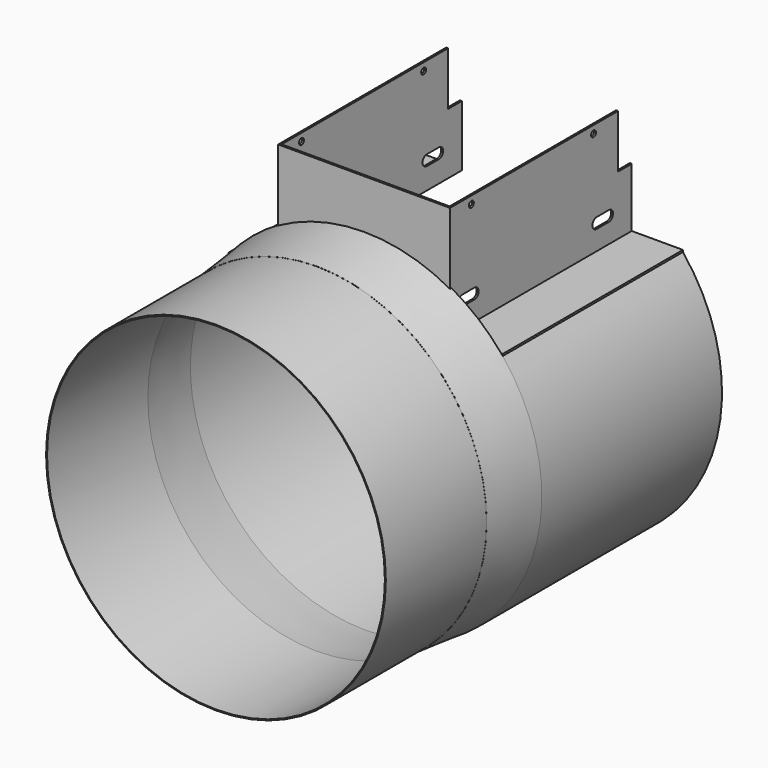
from build123d import *

# Parameters (mm, degrees)
F0_R      = 141.2875
F0_R_2    = 140.49375
F1_DEPTH  = 104.775
F6_R      = 146.558
F6_R_2    = 145.7151605206
F7_DEPTH  = 187.325
F8_W      = 355.6
F8_H      = 187.325
F9_DEPTH  = 54.484
F10_W     = 44.1738647784
F10_H     = 187.325
F11_DEPTH = 1.5875
F12_W     = 1.5875
F12_H     = 187.325
F13_DEPTH = 93.6625
F15_DEPTH = 1.5875
F17_DEPTH = 1.5875
F18_W     = 14.2875
F18_H     = 44.45
F19_DEPTH = 217.9965
F20_R     = 2.5527
F21_DEPTH = 217.9965


with BuildPart() as f1:
    # F0 (on Front) → F1 (new body)
    with BuildSketch(Plane.XZ):
        Circle(F0_R)
        Circle(F0_R_2, mode=Mode.SUBTRACT)
    extrude(amount=F1_DEPTH)

    # F3 (on Right) → F4 (revolve)
    with BuildSketch(Plane.YZ):
        Polygon((0, 141.3524150848), (0, 140.5095756054), (50.8, 145.7151605206), (50.8, 146.558), align=None)
    revolve(axis=Axis((0, 43.5656532645, 0), (0, 1, 0)))

    # F6 (on face) → F7 (join)
    with BuildSketch(Plane(origin=(0, 50.8, 0), x_dir=(-1, 0, 0), z_dir=(0, 1, 0))):
        Circle(F6_R)
        Circle(F6_R_2, mode=Mode.SUBTRACT)
    extrude(amount=F7_DEPTH)

    # F8 (on offset) → F9 (cut, through all)
    with BuildSketch(Plane.XY.offset(92.075)):
        with Locations((0, 144.4625)):
            Rectangle(F8_W, F8_H)
    extrude(amount=F9_DEPTH, mode=Mode.SUBTRACT)

    # F10 (on offset) → F11 (join)
    with BuildSketch(Plane.XY.offset(92.075)):
        with Locations((91.9369323892, 144.4625)):
            Rectangle(F10_W, F10_H)
        with Locations((-91.9369323892, 144.4625)):
            Rectangle(F10_W, F10_H)
    extrude(amount=F11_DEPTH)

    # F12 (on face) → F13 (join)
    with BuildSketch(Plane.XY.offset(93.6625)):
        with Locations((70.64375, 144.4625)):
            Rectangle(F12_W, F12_H)
        with Locations((-70.64375, 144.4625)):
            Rectangle(F12_W, F12_H)
    extrude(amount=F13_DEPTH)

    # F14 (on face) → F15 (join)
    with BuildSketch(Plane(origin=(0, 50.8, 0), x_dir=(-1, 0, 0), z_dir=(0, 1, 0))):
        with BuildLine():
            Line((69.85, 92.075), (112.5973956514, 92.075))
            ThreePointArc((112.5973956514, 92.075), (92.9351127931, 111.8885335618), (69.85, 127.5811766385))
            Line((69.85, 127.5811766385), (69.85, 92.075))
        make_face()
        with BuildLine():
            ThreePointArc((-69.85, 127.5811766385), (-92.9351127931, 111.8885335618), (-112.5973956514, 92.075))
            Line((-112.5973956514, 92.075), (-69.85, 92.075))
            Line((-69.85, 92.075), (-69.85, 127.5811766385))
        make_face()
    extrude(amount=-F15_DEPTH)

    # F16 (on face) → F17 (join)
    with BuildSketch(Plane(origin=(0, 50.8, 0), x_dir=(-1, 0, 0), z_dir=(0, 1, 0))):
        with BuildLine():
            ThreePointArc((-71.4375, 128.0071860315), (0, 146.5918008687), (71.4375, 128.0071860315))
            Line((71.4375, 128.0071860315), (71.4375, 187.325))
            Line((71.4375, 187.325), (-71.4375, 187.325))
            Line((-71.4375, 187.325), (-71.4375, 128.0071860315))
        make_face()
    extrude(amount=-F17_DEPTH)

    # F18 (on face) → F19 (cut, through all)
    with BuildSketch(Plane(origin=(-71.4375, 0, 0), x_dir=(0, -1, 0), z_dir=(-1, 0, 0))):
        with Locations((-230.98125, 165.1)):
            Rectangle(F18_W, F18_H)
    extrude(amount=-F19_DEPTH, mode=Mode.SUBTRACT)

    # F20 (on face) → F21 (cut, through all)
    with BuildSketch(Plane(origin=(-71.4375, 0, 0), x_dir=(0, -1, 0), z_dir=(-1, 0, 0))):
        with BuildLine():
            Line((-61.7855314592, 109.9362217483), (-62.0382119647, 109.936185368))
            ThreePointArc((-62.0382119647, 109.936185368), (-61.9118714487, 109.9343750452), (-61.7855314592, 109.9362217483))
        make_face()
        with BuildLine():
            Line((-74.6118714487, 109.9343750452), (-62.0382119647, 109.936185368))
            Line((-62.0382119647, 109.936185368), (-61.7855314592, 109.9362217483))
            ThreePointArc((-61.7855314592, 109.9362217483), (-57.5470865675, 114.3429791138), (-61.8714737728, 118.6654322225))
            Line((-61.8714737728, 118.6654322225), (-61.9533941249, 118.665433462))
            Line((-61.9533941249, 118.665433462), (-74.6124339459, 118.6656249995))
            ThreePointArc((-74.6124339459, 118.6656249995), (-78.9781249909, 114.2997187514), (-74.6118714487, 109.9343750452))
        make_face()
        with BuildLine():
            Line((-61.9533941249, 118.665433462), (-61.8714737728, 118.6654322225))
            ThreePointArc((-61.8714737728, 118.6654322225), (-61.9124339459, 118.6656249995), (-61.9533941249, 118.665433462))
        make_face()
        with BuildLine():
            Line((-214.0709987284, 109.9410599022), (-201.8540012716, 109.9410599022))
            ThreePointArc((-201.8540012716, 109.9410599022), (-197.2482995581, 114.188482543), (-201.6310653813, 118.665585524))
            Line((-201.6310653813, 118.665585524), (-214.3124864102, 118.665625))
            ThreePointArc((-214.3124864102, 118.665625), (-218.6764532664, 114.4208036798), (-214.5540012716, 109.9410599022))
            Line((-214.5540012716, 109.9410599022), (-214.0709987284, 109.9410599022))
        make_face()
        with BuildLine():
            ThreePointArc((-214.5540012716, 109.9410599022), (-214.3125, 109.934375), (-214.0709987284, 109.9410599022))
            Line((-214.0709987284, 109.9410599022), (-214.5540012716, 109.9410599022))
        make_face()
        with Locations((-71.4375, 180.975)):
            Circle(F20_R)
        with Locations((-198.4375, 180.975)):
            Circle(F20_R)
    extrude(amount=-F21_DEPTH, mode=Mode.SUBTRACT)


solid = f1.part
